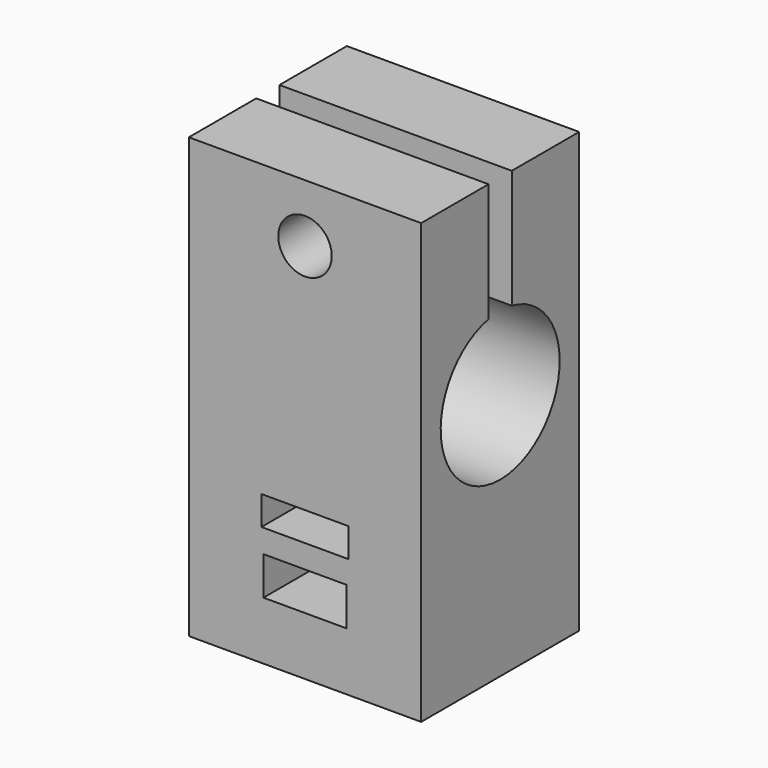
from build123d import *

# Parameters (mm, degrees)
F0_W     = 20
F0_H     = 37.8
F0_W_2   = 7.15
F0_H_2   = 3.3
F0_W_3   = 7.5
F0_H_3   = 2.5
F1_DEPTH = 17
F3_DEPTH = 20.001
F4_R     = 2.3
F5_DEPTH = 17.001
F7_DEPTH = 5
F8_R     = 2.3
F9_DEPTH = 11


with BuildPart() as f1:
    # F0 (on Front) → F1 (new body)
    with BuildSketch(Plane.XZ):
        with Locations((0, 18.9)):
            Rectangle(F0_W, F0_H)
        with Locations((0, 6.65)):
            Rectangle(F0_W_2, F0_H_2, mode=Mode.SUBTRACT)
        with Locations((0, 11.55)):
            Rectangle(F0_W_3, F0_H_3, mode=Mode.SUBTRACT)
    extrude(amount=F1_DEPTH)

    # F2 (on face) → F3 (cut, through all)
    with BuildSketch(Plane.YZ.offset(10)):
        with BuildLine():
            Line((-9.75, 39.08921), (-9.75, 27.576743))
            ThreePointArc((-9.75, 27.576743), (-8.5, 14.9), (-7.25, 27.576743))
            Line((-7.25, 27.576743), (-7.25, 39.08921))
            Line((-7.25, 39.08921), (-9.75, 39.08921))
        make_face()
    extrude(amount=-F3_DEPTH, mode=Mode.SUBTRACT)

    # F4 (on face) → F5 (cut, through all)
    with BuildSketch(Plane(origin=(0, 0, 0), x_dir=(-1, 0, 0), z_dir=(0, 1, 0))):
        with Locations((0, 32.8)):
            Circle(F4_R)
    extrude(amount=-F5_DEPTH, mode=Mode.SUBTRACT)

    # F6 (on face) → F7 (cut)
    with BuildSketch(Plane(origin=(0, 0, 0), x_dir=(-1, 0, 0), z_dir=(0, 1, 0))):
        Polygon((4.128054, 32.8), (2.064027, 36.375), (-2.064027, 36.375), (-4.128054, 32.8), (-2.064027, 29.225), (2.064027, 29.225), align=None)
    extrude(amount=-F7_DEPTH, mode=Mode.SUBTRACT)

    # F8 (on face) → F9 (cut)
    with BuildSketch(Plane(origin=(0, 0, 0), x_dir=(1, 0, 0), z_dir=(0, 0, -1))):
        with Locations((0, 8.5)):
            Circle(F8_R)
    extrude(amount=-F9_DEPTH, mode=Mode.SUBTRACT)


solid = f1.part
